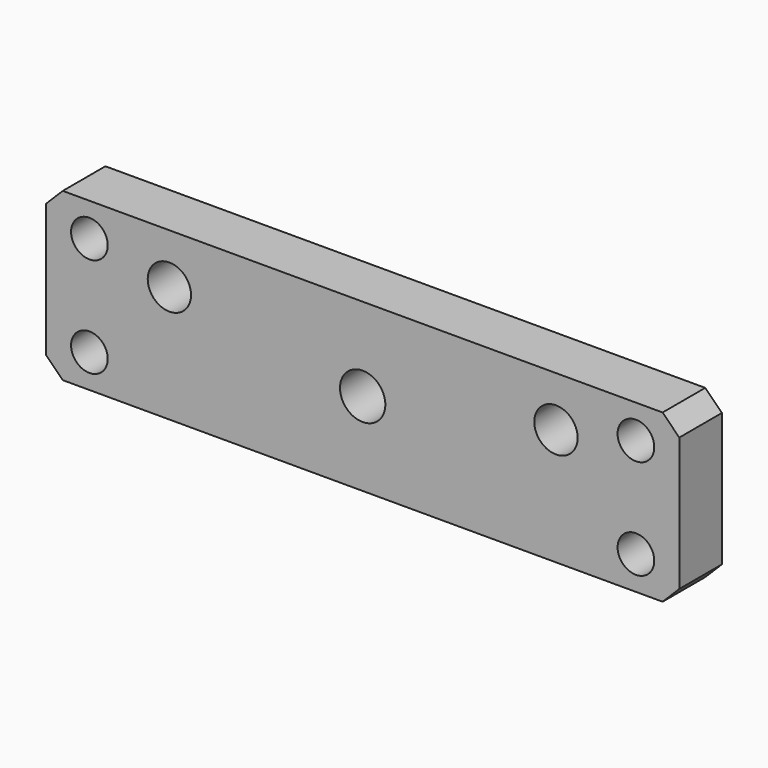
from build123d import *

# Parameters (mm, degrees)
F0_W     = 95
F0_H     = 25
F1_DEPTH = 8
F2_SIZE  = 2.5
F4_D     = 5.5
F4_DEPTH = 10
F4_TIP   = 1.6523667023
F6_D     = 6.5
F6_DEPTH = 10
F6_TIP   = 1.9527970118
F7_D     = 6.8


with BuildPart() as f1:
    # F0 (on Front) → F1 (new body)
    with BuildSketch(Plane.XZ):
        Rectangle(F0_W, F0_H)
    extrude(amount=F1_DEPTH)

    # F2
    f2_edges = [f1.edges().sort_by_distance(p)[0] for p in [
        (47.5, -4, 12.5),
        (47.5, -4, -12.5),
        (-47.5, -4, 12.5),
        (-47.5, -4, -12.5),
    ]]
    chamfer(f2_edges, length=F2_SIZE)

    # F4
    with Locations(Plane.XZ.offset(8)):
        with Locations((-41, 7.5), (-41, -7.5), (41, -7.5), (41, 7.5)):
            Hole(F4_D / 2, depth=F4_DEPTH)
            with Locations((0, 0, -(F4_DEPTH + F4_TIP / 2))):  # 118° drill point
                Cone(0, F4_D / 2, F4_TIP, mode=Mode.SUBTRACT)

    # F6
    with Locations(Plane.XZ.offset(8)):
        with Locations((-29, 5), (29, 5)):
            Hole(F6_D / 2, depth=F6_DEPTH)
            with Locations((0, 0, -(F6_DEPTH + F6_TIP / 2))):  # 118° drill point
                Cone(0, F6_D / 2, F6_TIP, mode=Mode.SUBTRACT)

    # F7 (through all)
    with Locations(Plane.XZ.offset(8)):
        with Locations((0, 0)):
            Hole(F7_D / 2)


solid = f1.part
